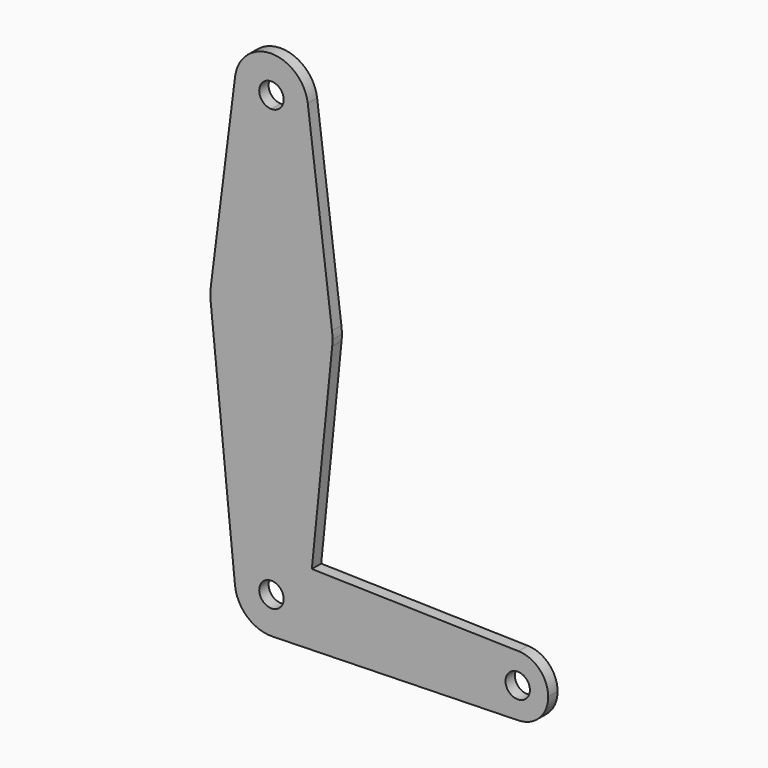
from build123d import *

# Parameters (mm, degrees)
F1_DEPTH = 3.048


with BuildPart() as f1:
    # F0 (on Front) → F1 (new body)
    with BuildSketch(Plane.XZ):
        with BuildLine():
            Line((0, 79.375), (0, 104.775))
            ThreePointArc((0, 104.775), (-7.14375, 107.9998046905), (-9.4502929642, 115.490625))
            Line((-9.4502929642, 115.490625), (-15.7504882737, 65.484375))
            ThreePointArc((-15.7504882737, 65.484375), (-10.5003255158, 75.40625), (0, 79.375))
        make_face()
        with BuildLine():
            ThreePointArc((9.525, 114.3), (6.7351920908, 107.5648079092), (0, 104.775))
            Line((0, 104.775), (0, 79.375))
            ThreePointArc((0, 79.375), (10.5003255158, 75.40625), (15.7504882737, 65.484375))
            Line((15.7504882737, 65.484375), (9.4502929642, 115.490625))
            ThreePointArc((9.4502929642, 115.490625), (9.5063048942, 114.896483242), (9.525, 114.3))
        make_face()
        with BuildLine():
            ThreePointArc((15.7504882737, 65.484375), (10.5003255158, 75.40625), (0, 79.375))
            Line((0, 79.375), (0, 47.625))
            ThreePointArc((0, 47.625), (10.6492737428, 51.7267849017), (15.7954255641, 61.9125))
            ThreePointArc((15.7954255641, 61.9125), (15.8550939106, 62.7052534459), (15.875, 63.5))
            ThreePointArc((15.875, 63.5), (15.8438414904, 64.4941387366), (15.7504882737, 65.484375))
        make_face()
        with BuildLine():
            Line((0, 47.625), (0, 79.375))
            ThreePointArc((0, 79.375), (-10.5003255158, 75.40625), (-15.7504882737, 65.484375))
            ThreePointArc((-15.7504882737, 65.484375), (-15.8737438155, 63.6997054867), (-15.7954255641, 61.9125))
            ThreePointArc((-15.7954255641, 61.9125), (-10.6492737428, 51.7267849017), (0, 47.625))
        make_face()
        with BuildLine():
            Line((0, 9.525), (0, 47.625))
            ThreePointArc((0, 47.625), (-10.6492737428, 51.7267849017), (-15.7954255641, 61.9125))
            Line((-15.7954255641, 61.9125), (-9.4772553384, -0.9525))
            ThreePointArc((-9.4772553384, -0.9525), (-7.063929059, 6.3895642457), (0, 9.525))
        make_face()
        with BuildLine():
            ThreePointArc((-9.4502929642, 115.490625), (-7.14375, 107.9998046905), (0, 104.775))
            ThreePointArc((0, 104.775), (6.7351920908, 107.5648079092), (9.525, 114.3))
            ThreePointArc((9.525, 114.3), (9.5063048942, 114.896483242), (9.4502929642, 115.490625))
            ThreePointArc((9.4502929642, 115.490625), (0, 123.825), (-9.4502929642, 115.490625))
        make_face()
        with BuildLine():
            ThreePointArc((3.175, 114.3), (2.2450640303, 112.0549359697), (0, 111.125))
            ThreePointArc((0, 111.125), (-2.2450640303, 116.5450640303), (3.175, 114.3))
        make_face(mode=Mode.SUBTRACT)
        with BuildLine():
            ThreePointArc((71.9691688256, 0), (69.7134786398, 5.5426476963), (64.228458656, 7.935060177))
            ThreePointArc((64.228458656, 7.935060177), (58.4890211293, 5.6818098142), (56.0941688256, 0))
            ThreePointArc((56.0941688256, 0), (58.4890211293, -5.6818098142), (64.228458656, -7.935060177))
            ThreePointArc((64.228458656, -7.935060177), (69.7134786398, -5.5426476963), (71.9691688256, 0))
        make_face()
        with BuildLine():
            ThreePointArc((67.2066688256, 0), (64.0316688256, -3.175), (60.8566688256, 0))
            ThreePointArc((60.8566688256, 0), (64.0316688256, 3.175), (67.2066688256, 0))
        make_face(mode=Mode.SUBTRACT)
        with BuildLine():
            ThreePointArc((15.7954255641, 61.9125), (10.6492737428, 51.7267849017), (0, 47.625))
            Line((0, 47.625), (0, 9.525))
            ThreePointArc((0, 9.525), (0.1180829727, 9.524268025), (0.2361477965, 9.5220722124))
            Line((0.2361477965, 9.5220722124), (10.5043958672, 9.2674192228))
            Line((10.5043958672, 9.2674192228), (15.7954255641, 61.9125))
        make_face()
        with BuildLine():
            Line((10.5043958672, 9.2674192228), (0.2361477965, 9.5220722124))
            ThreePointArc((0.2361477965, 9.5220722124), (6.818171777, 6.6511772356), (9.525, 0))
            Line((9.525, 0), (9.5729851903, 0))
            Line((9.5729851903, 0), (10.5043958672, 9.2674192228))
        make_face()
        with BuildLine():
            ThreePointArc((9.4772553384, -0.9525), (6.4766458983, -6.9841737456), (0.2361477965, -9.5220722124))
            Line((0.2361477965, -9.5220722124), (64.228458656, -7.935060177))
            ThreePointArc((64.228458656, -7.935060177), (58.4890211293, -5.6818098142), (56.0941688256, 0))
            Line((56.0941688256, 0), (9.5729851903, 0))
            Line((9.5729851903, 0), (9.4772553384, -0.9525))
        make_face()
        with BuildLine():
            Line((0, 3.175), (0, 9.525))
            ThreePointArc((0, 9.525), (-7.063929059, 6.3895642457), (-9.4772553384, -0.9525))
            ThreePointArc((-9.4772553384, -0.9525), (-6.3015005456, -7.1425986779), (0.2361477965, -9.5220722124))
            ThreePointArc((0.2361477965, -9.5220722124), (6.4766458983, -6.9841737456), (9.4772553384, -0.9525))
            ThreePointArc((9.4772553384, -0.9525), (9.5130563464, -0.4768479324), (9.525, 0))
            Line((9.525, 0), (3.175, 0))
            ThreePointArc((3.175, 0), (-2.2450640303, -2.2450640303), (0, 3.175))
        make_face()
        with BuildLine():
            ThreePointArc((0.2361477965, 9.5220722124), (0.1180829727, 9.524268025), (0, 9.525))
            Line((0, 9.525), (0, 3.175))
            ThreePointArc((0, 3.175), (2.2450640303, 2.2450640303), (3.175, 0))
            Line((3.175, 0), (9.525, 0))
            ThreePointArc((9.525, 0), (6.818171777, 6.6511772356), (0.2361477965, 9.5220722124))
        make_face()
        with BuildLine():
            Line((64.228458656, 7.935060177), (10.5043958672, 9.2674192228))
            Line((10.5043958672, 9.2674192228), (9.5729851903, 0))
            Line((9.5729851903, 0), (56.0941688256, 0))
            ThreePointArc((56.0941688256, 0), (58.4890211293, 5.6818098142), (64.228458656, 7.935060177))
        make_face()
    extrude(amount=F1_DEPTH)


solid = f1.part
